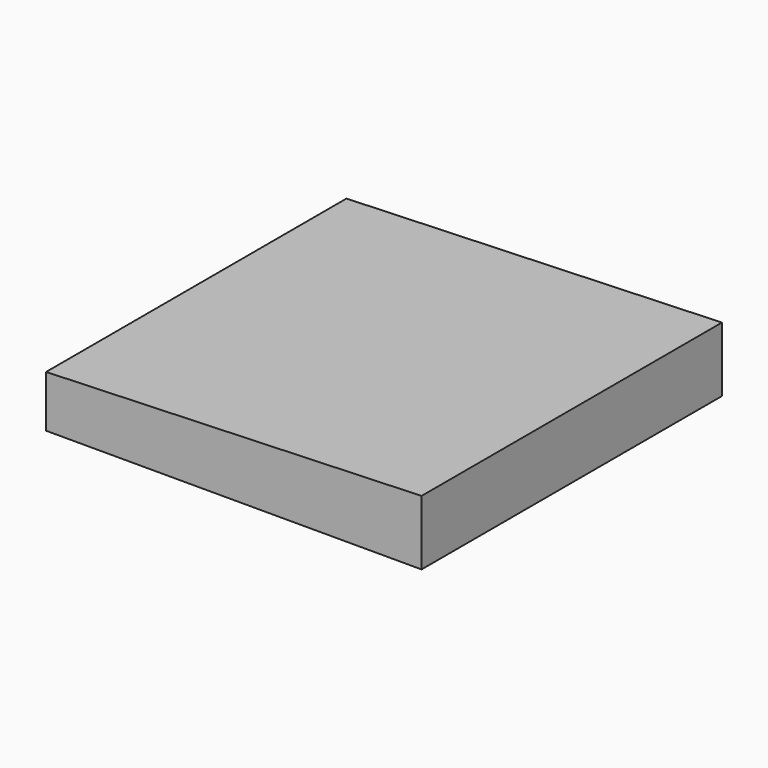
from build123d import *

# Parameters (mm, degrees)
F0_W     = 29
F0_H     = 29
F1_DEPTH = 6
F3_DEPTH = 29


with BuildPart() as f1:
    # F0 (on Top) → F1 (new body)
    with BuildSketch(Plane.XY):
        Rectangle(F0_W, F0_H)
    extrude(amount=F1_DEPTH)

    # F2 (on face) → F3 (cut)
    with BuildSketch(Plane.XZ.offset(14.5)):
        Polygon((-14.5, 6), (-14.5, 4), (14.5, 5), (14.5, 6), align=None)
    extrude(amount=-F3_DEPTH, mode=Mode.SUBTRACT)


solid = f1.part
